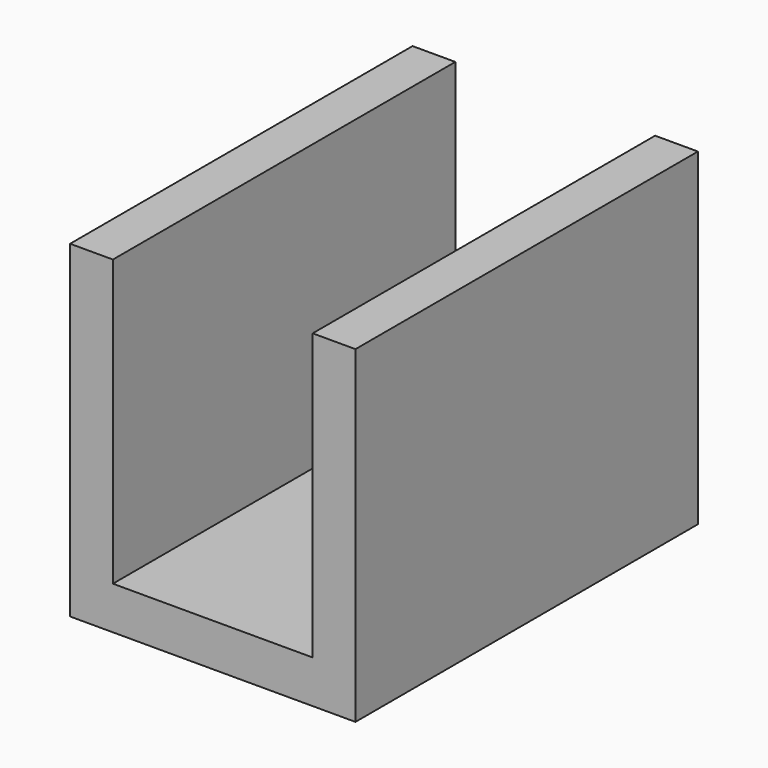
from build123d import *

# Parameters (mm, degrees)
F0_W     = 7.62
F0_H     = 50.8
F1_DEPTH = 76.2


with BuildPart() as f1:
    # F0 (on Front) → F1 (new body)
    with BuildSketch(Plane.XZ):
        Polygon((0, 7.62), (0, 0), (25.4, 0), (25.4, 7.62), (17.78, 7.62), align=None)
        Polygon((-25.4, 0), (0, 0), (0, 7.62), (-17.78, 7.62), (-25.4, 7.62), align=None)
        with Locations((21.59, 33.02)):
            Rectangle(F0_W, F0_H)
        with Locations((-21.59, 33.02)):
            Rectangle(F0_W, F0_H)
    extrude(amount=F1_DEPTH)


solid = f1.part
